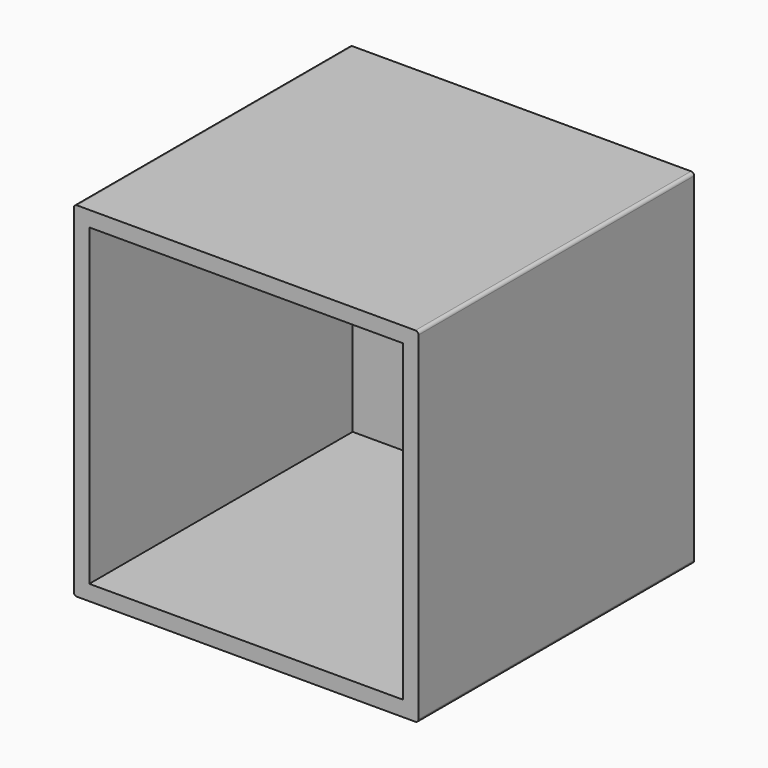
from build123d import *

# Parameters (mm, degrees)
F0_W     = 61.1250735819
F0_H     = 72.7862343192
F1_DEPTH = 28.448
F2_DEPTH = 32.6771
F3_DEPTH = 41.03624
F4_R     = 0.254
F5_T     = -1.27
F6_DEPTH = 3.302


with BuildPart() as f1:
    # F0 (on Top) → F1 (new body)
    with BuildSketch(Plane.XY):
        Rectangle(F0_W, F0_H)
    extrude(amount=F1_DEPTH)

    # F2 (cut): a face of the model
    f2_faces = [f1.faces().sort_by_distance(p)[0] for p in [
        (30.562536791, 0, 14.224),
    ]]
    extrude(f2_faces, amount=-F2_DEPTH, mode=Mode.SUBTRACT)

    # F3 (cut): a face of the model
    f3_faces = [f1.faces().sort_by_distance(p)[0] for p in [
        (-16.33855, -36.3931171596, 14.224),
    ]]
    extrude(f3_faces, amount=-F3_DEPTH, mode=Mode.SUBTRACT)

    # F4
    f4_edges = [f1.edges().sort_by_distance(p)[0] for p in [
        (-2.114563, 20.51812, 28.448),
        (-30.562537, 20.51812, 28.448),
        (-2.114563, 20.51812, 0),
        (-30.562537, 20.51812, 0),
    ]]
    fillet(f4_edges, radius=F4_R)

    # F5
    f5_openings = [f1.faces().sort_by_distance(p)[0] for p in [
        (-16.33855, 4.643123, 14.224),
    ]]
    offset(amount=F5_T, openings=f5_openings)

    # F6 (cut): a face of the model
    f6_faces = [f1.faces().sort_by_distance(p)[0] for p in [
        (-16.33855, 4.6431228404, 0.4023152874),
    ]]
    extrude(f6_faces, amount=-F6_DEPTH, mode=Mode.SUBTRACT)


solid = f1.part
